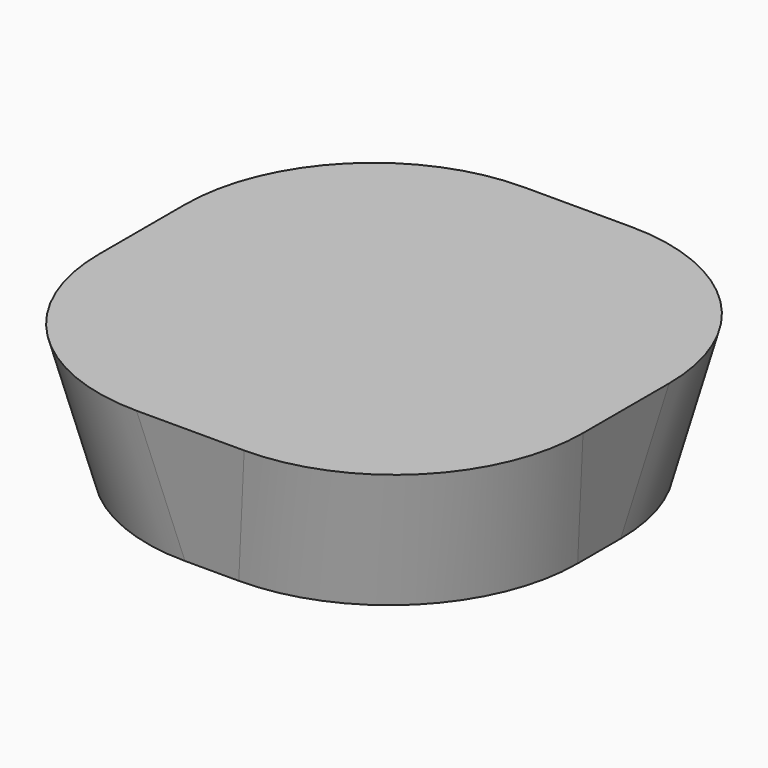
from build123d import *


with BuildPart() as part:
    # Face → Loft section 0
    with BuildSketch(Plane(origin=(80, 80, 0), x_dir=(0, 1, 0), z_dir=(0, 0, 1))):
        with BuildLine():
            ThreePointArc((80, 10), (59.497475, 59.497475), (10, 80))
            Line((10, 80), (-10, 80))
            ThreePointArc((-10, 80), (-59.497475, 59.497475), (-80, 10))
            Line((-80, 10), (-80, -10))
            ThreePointArc((-80, -10), (-59.497475, -59.497475), (-10, -80))
            Line((-10, -80), (10, -80))
            ThreePointArc((10, -80), (59.497475, -59.497475), (80, -10))
            Line((80, -10), (80, 10))
        make_face()
    # Face001 → Loft section 1
    with BuildSketch(Plane(origin=(80, 80, 50), x_dir=(0, 1, 0), z_dir=(0, 0, 1))):
        with BuildLine():
            ThreePointArc((-20, 90), (-69.497475, 69.497475), (-90, 20))
            Line((-90, 20), (-90, -20))
            ThreePointArc((-90, -20), (-69.497475, -69.497475), (-20, -90))
            Line((-20, -90), (20, -90))
            ThreePointArc((20, -90), (69.497475, -69.497475), (90, -20))
            Line((90, -20), (90, 20))
            ThreePointArc((90, 20), (69.497475, 69.497475), (20, 90))
            Line((20, 90), (-20, 90))
        make_face()
    loft()


solid = part.part
